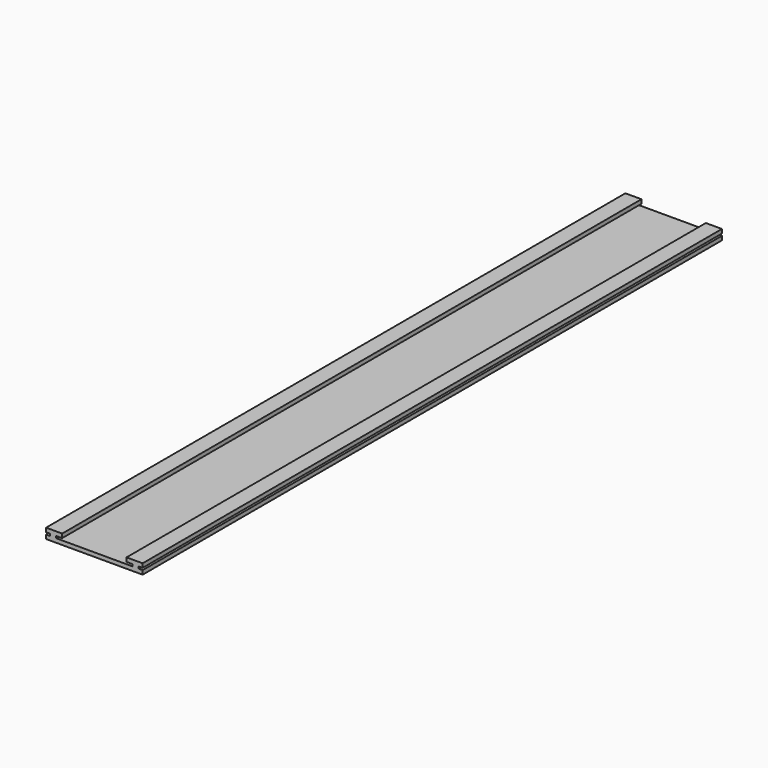
from build123d import *

# Parameters (mm, degrees)
F1_DEPTH = 2286


with BuildPart() as f1:
    # F0 (on Front) → F1 (new body)
    with BuildSketch(Plane.XZ):
        Polygon((-35.060413, 0), (-35.060413, -12.7), (269.739587, -12.7), (269.739587, 0), (257.039587, 0), (257.039587, 6.35), (269.739587, 6.35), (269.739587, 19.05), (218.939587, 19.05), (218.939587, 6.35), (237.989591, 6.35), (237.989591, 0), (-3.310414, 0), (-3.310414, 6.35), (15.739587, 6.35), (15.739587, 19.05), (-35.060413, 19.05), (-35.060413, 6.35), (-22.360413, 6.35), (-22.360413, 0), align=None)
    extrude(amount=-F1_DEPTH)


solid = f1.part
